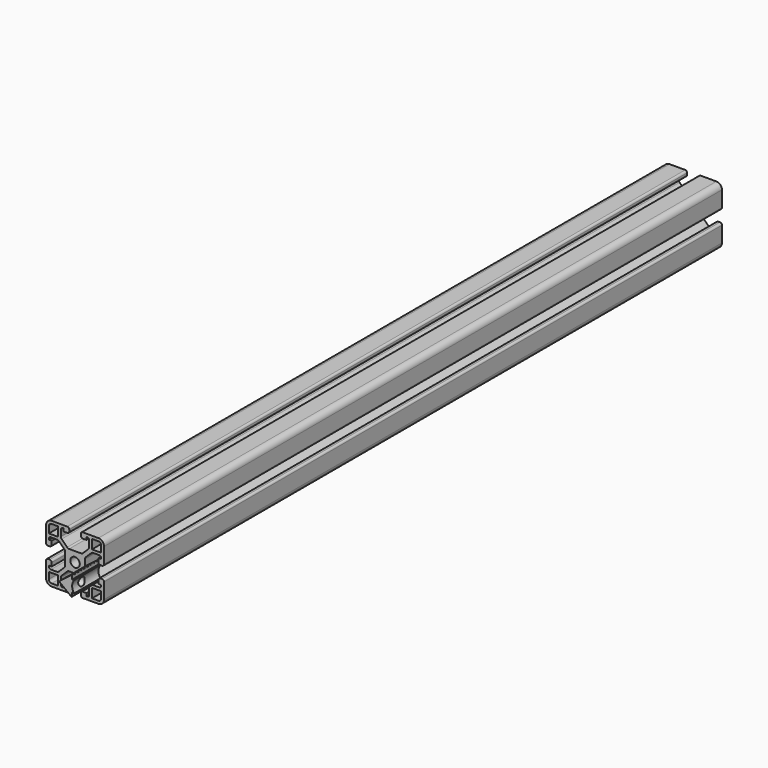
from build123d import *

# Parameters (mm, degrees)
F0_W      = 4.7857864376
F0_H      = 4.7857864376
F0_R      = 2.45
F1_DEPTH  = 400
F2_R      = 1
F3_R      = 2.9
F4_R      = 1.45
F6_DEPTH  = 17
F7_R      = 0.5
F8_R      = 0.3
F11_D     = 4.2
F11_DEPTH = 6.9828249388


with BuildPart() as f1:
    # F0 (on Front) → F1 (new body)
    with BuildSketch(Plane.XZ):
        Polygon((3, -15), (15, -15), (15, -3), (12.1, -3), (12.1, -5.9), (13.55, -5.9), (13.55, -7.35), (8.7642135624, -7.35), (5.1, -3.6857864376), (5.1, 0), (5.1, 3.6857864376), (8.7642135624, 7.35), (13.55, 7.35), (13.55, 5.9), (12.1, 5.9), (12.1, 3), (15, 3), (15, 15), (3, 15), (3, 12.1), (5.9, 12.1), (5.9, 13.55), (7.35, 13.55), (7.35, 8.7642135624), (3.6857864376, 5.1), (0, 5.1), (-3.6857864376, 5.1), (-7.35, 8.7642135624), (-7.35, 13.55), (-5.9, 13.55), (-5.9, 12.1), (-3, 12.1), (-3, 15), (-15, 15), (-15, 3), (-12.1, 3), (-12.1, 5.9), (-13.55, 5.9), (-13.55, 7.35), (-8.7642135624, 7.35), (-5.1, 3.6857864376), (-5.1, 0), (-5.1, -3.6857864376), (-8.7642135624, -7.35), (-13.55, -7.35), (-13.55, -5.9), (-12.1, -5.9), (-12.1, -3), (-15, -3), (-15, -15), (-3, -15), (-3, -12.1), (-5.9, -12.1), (-5.9, -13.55), (-7.35, -13.55), (-7.35, -8.7642135624), (-3.6857864376, -5.1), (0, -5.1), (3.6857864376, -5.1), (7.35, -8.7642135624), (7.35, -13.55), (5.9, -13.55), (5.9, -12.1), (3, -12.1), align=None)
        with Locations((-11.1571067812, -11.1571067812)):
            Rectangle(F0_W, F0_H, mode=Mode.SUBTRACT)
        with Locations((11.1571067812, -11.1571067812)):
            Rectangle(F0_W, F0_H, mode=Mode.SUBTRACT)
        with Locations((-11.1571067812, 11.1571067812)):
            Rectangle(F0_W, F0_H, mode=Mode.SUBTRACT)
        Circle(F0_R, mode=Mode.SUBTRACT)
        with Locations((11.1571067812, 11.1571067812)):
            Rectangle(F0_W, F0_H, mode=Mode.SUBTRACT)
    extrude(amount=F1_DEPTH)

    # F2
    f2_edges = [f1.edges().sort_by_distance(p)[0] for p in [
        (12.1, -200, -3),
        (15, -200, -3),
        (12.1, -200, 3),
        (15, -200, 3),
        (3, -200, -15),
        (3, -200, -12.1),
        (-3, -200, -15),
        (-3, -200, -12.1),
        (-15, -200, -3),
        (-12.1, -200, -3),
        (-12.1, -200, 3),
        (-15, -200, 3),
        (-3, -200, 12.1),
        (-3, -200, 15),
        (3, -200, 12.1),
        (3, -200, 15),
        (-13.55, -200, 7.35),
        (-7.35, -200, 13.55),
        (7.35, -200, 13.55),
        (13.55, -200, 7.35),
        (7.35, -200, -13.55),
        (13.55, -200, -7.35),
        (-7.35, -200, -13.55),
        (-13.55, -200, -7.35),
    ]]
    fillet(f2_edges, radius=F2_R)

    # F3
    f3_edges = [f1.edges().sort_by_distance(p)[0] for p in [
        (15, -200, 15),
        (-15, -200, 15),
        (-15, -200, -15),
        (15, -200, -15),
    ]]
    fillet(f3_edges, radius=F3_R)

    # F4
    f4_edges = [f1.edges().sort_by_distance(p)[0] for p in [
        (13.55, -200, -13.55),
        (-13.55, -200, -13.55),
        (-13.55, -200, 13.55),
        (13.55, -200, 13.55),
        (-7.35, -200, -8.764214),
        (-3.685786, -200, -5.1),
        (3.685786, -200, -5.1),
        (7.35, -200, -8.764214),
        (8.764214, -200, -7.35),
        (5.1, -200, -3.685786),
        (5.1, -200, 3.685786),
        (8.764214, -200, 7.35),
        (-7.35, -200, 8.764214),
        (-3.685786, -200, 5.1),
        (3.685786, -200, 5.1),
        (7.35, -200, 8.764214),
        (-8.764214, -200, 7.35),
        (-5.1, -200, 3.685786),
        (-5.1, -200, -3.685786),
        (-8.764214, -200, -7.35),
    ]]
    fillet(f4_edges, radius=F4_R)


with BuildPart() as f6:
    # F5 (on face) → F6 (new body)
    with BuildSketch(Plane.XZ.offset(400)):
        with BuildLine():
            Line((13.1, 3), (12.1, 3))
            Line((12.1, 3), (12.1, 4))
            Line((12.1, 4), (12.1, 5.25))
            Line((12.1, 5.25), (5.3, 0))
            Line((5.3, 0), (12.1, -5.25))
            Line((12.1, -5.25), (12.1, -4))
            Line((12.1, -4), (12.1, -3))
            Line((12.1, -3), (13.1, -3))
            ThreePointArc((13.1, -3), (12.1, 0), (13.1, 3))
        make_face()
        with BuildLine():
            Line((13.1, 3), (12.1, 3))
            Line((12.1, 3), (12.1, 4))
            Line((12.1, 4), (12.1, 5.25))
            Line((12.1, 5.25), (5.3, 0))
            Line((5.3, 0), (12.1, -5.25))
            Line((12.1, -5.25), (12.1, -4))
            Line((12.1, -4), (12.1, -3))
            Line((12.1, -3), (13.1, -3))
            ThreePointArc((13.1, -3), (12.1, 0), (13.1, 3))
        make_face()
        with BuildLine():
            Line((13.1, 3), (12.1, 3))
            Line((12.1, 3), (12.1, 4))
            Line((12.1, 4), (12.1, 5.25))
            Line((12.1, 5.25), (5.3, 0))
            Line((5.3, 0), (12.1, -5.25))
            Line((12.1, -5.25), (12.1, -4))
            Line((12.1, -4), (12.1, -3))
            Line((12.1, -3), (13.1, -3))
            ThreePointArc((13.1, -3), (12.1, 0), (13.1, 3))
        make_face()
    extrude(amount=F6_DEPTH)

    # F7
    f7_edges = [f6.edges().sort_by_distance(p)[0] for p in [
        (5.3, -408.5, 0),
    ]]
    fillet(f7_edges, radius=F7_R)

    # F8
    f8_edges = [f6.edges().sort_by_distance(p)[0] for p in [
        (12.1, -408.5, 5.25),
        (12.1, -408.5, -5.25),
    ]]
    fillet(f8_edges, radius=F8_R)

    # F11 (through all, one way)
    with BuildSketch(Plane.YZ.offset(12.6)):
        with Locations((-411, -0.25)):
            Circle(F11_D / 2)
    extrude(amount=-F11_DEPTH, mode=Mode.SUBTRACT)


solid = Compound([f1.part, f6.part])
